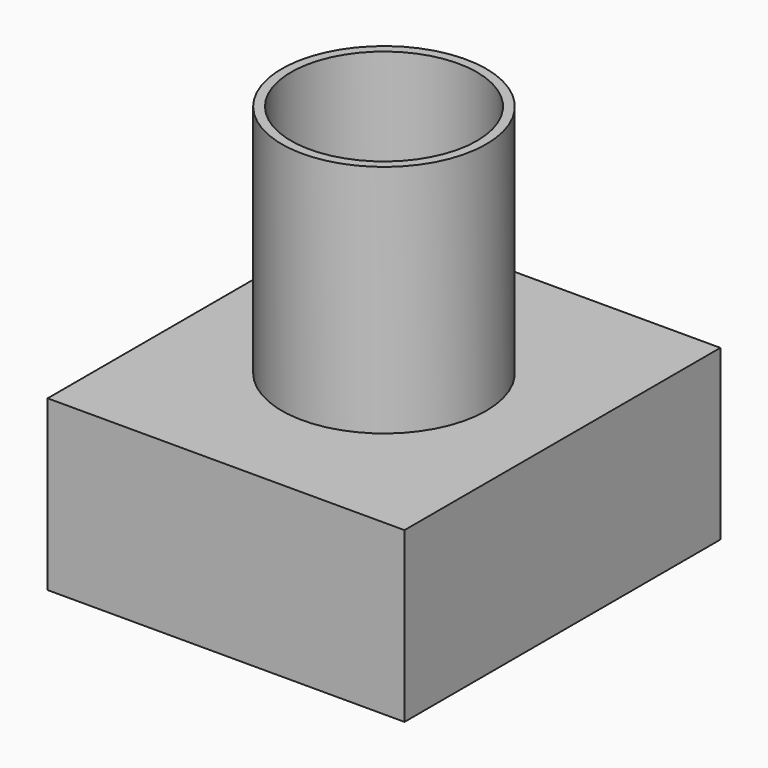
from build123d import *

# Parameters (mm, degrees)
F1_W     = 53.687666
F1_H     = 59.399114
F1_R     = 15.376156
F2_DEPTH = 25.4
F3_DEPTH = 60.706
F4_R     = 13.987853
F5_DEPTH = 95.25


with BuildPart() as f2:
    # F1 (on face) → F2 (new body)
    with BuildSketch(Plane.XY):
        Rectangle(F1_W, F1_H)
        Circle(F1_R, mode=Mode.SUBTRACT)
    extrude(amount=F2_DEPTH)

    # F1 (on face) → F3 (join)
    with BuildSketch(Plane.XY):
        Circle(F1_R)
    extrude(amount=F3_DEPTH)

    # F4 (on face) → F5 (cut)
    with BuildSketch(Plane.XY.offset(60.706)):
        Circle(F4_R)
    extrude(amount=-F5_DEPTH, mode=Mode.SUBTRACT)


solid = f2.part
